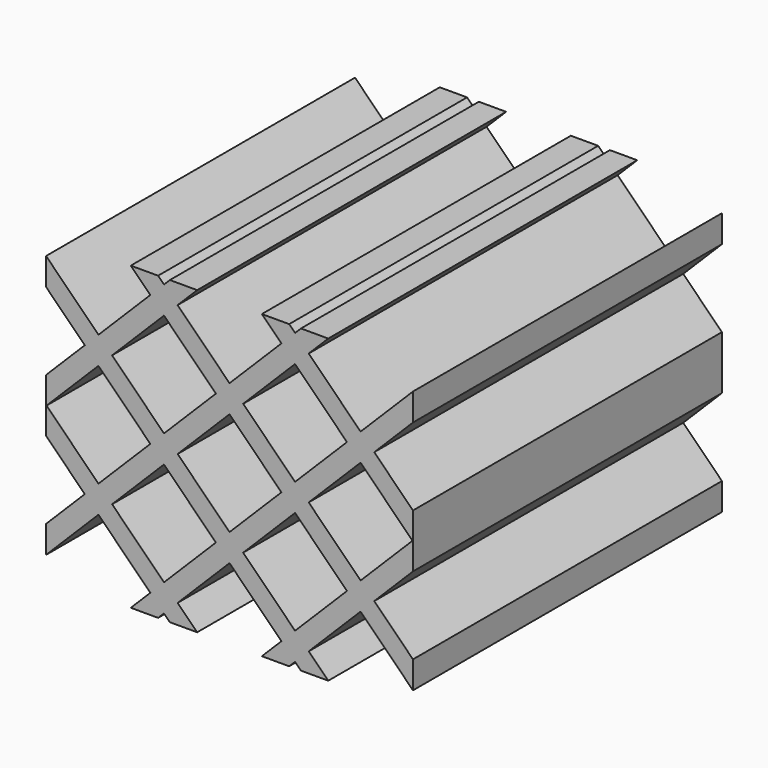
from build123d import *

# Parameters (mm, degrees)
F1_DEPTH = 500


with BuildPart() as f1:
    # F0 (on Front) → F1 (new body)
    with BuildSketch(Plane.XZ):
        Polygon((237.5, 0.619228), (237.5, 34.736111), (187.383297, 84.852814), (237.5, 134.969517), (237.5, 170.324856), (169.705627, 102.530483), (102.530483, 169.705627), (127.824856, 195), (92.469517, 195), (84.852814, 187.383297), (77.236111, 195), (41.880772, 195), (67.175144, 169.705627), (0, 102.530483), (-67.175144, 169.705627), (-41.880772, 195), (-77.236111, 195), (-84.852814, 187.383297), (-92.469517, 195), (-127.824856, 195), (-102.530483, 169.705627), (-169.705627, 102.530483), (-237.5, 170.324856), (-237.5, 134.969517), (-187.383297, 84.852814), (-237.5, 34.736111), (-237.5, 0.619228), (-236.880772, 0), (-237.5, -0.619228), (-237.5, -34.736111), (-187.383297, -84.852814), (-237.5, -134.969517), (-237.5, -170.324856), (-169.705627, -102.530483), (-102.530483, -169.705627), (-127.824856, -195), (-92.469517, -195), (-84.852814, -187.383297), (-77.236111, -195), (-41.880772, -195), (-67.175144, -169.705627), (0, -102.530483), (67.175144, -169.705627), (41.880772, -195), (77.236111, -195), (84.852814, -187.383297), (92.469517, -195), (127.824856, -195), (102.530483, -169.705627), (169.705627, -102.530483), (237.5, -170.324856), (237.5, -134.969517), (187.383297, -84.852814), (237.5, -34.736111), (237.5, -0.619228), (236.880772, 0), align=None)
        Polygon((-17.67767, -84.852814), (-84.852814, -152.027958), (-152.027958, -84.852814), (-84.852814, -17.67767), align=None, mode=Mode.SUBTRACT)
        Polygon((152.027958, -84.852814), (84.852814, -152.027958), (17.67767, -84.852814), (84.852814, -17.67767), align=None, mode=Mode.SUBTRACT)
        Polygon((-169.705627, -67.175144), (-236.880772, 0), (-169.705627, 67.175144), (-102.530483, 0), align=None, mode=Mode.SUBTRACT)
        Polygon((67.175144, 0), (0, -67.175144), (-67.175144, 0), (0, 67.175144), align=None, mode=Mode.SUBTRACT)
        Polygon((-17.67767, 84.852814), (-84.852814, 17.67767), (-152.027958, 84.852814), (-84.852814, 152.027958), align=None, mode=Mode.SUBTRACT)
        Polygon((152.027958, 84.852814), (84.852814, 17.67767), (17.67767, 84.852814), (84.852814, 152.027958), align=None, mode=Mode.SUBTRACT)
        Polygon((169.705627, 67.175144), (236.880772, 0), (169.705627, -67.175144), (102.530483, 0), align=None, mode=Mode.SUBTRACT)
        Polygon((237.5, -0.619228), (237.5, 0.619228), (236.880772, 0), align=None)
        Polygon((-236.880772, 0), (-237.5, 0.619228), (-237.5, -0.619228), align=None)
    extrude(amount=F1_DEPTH)


solid = f1.part
